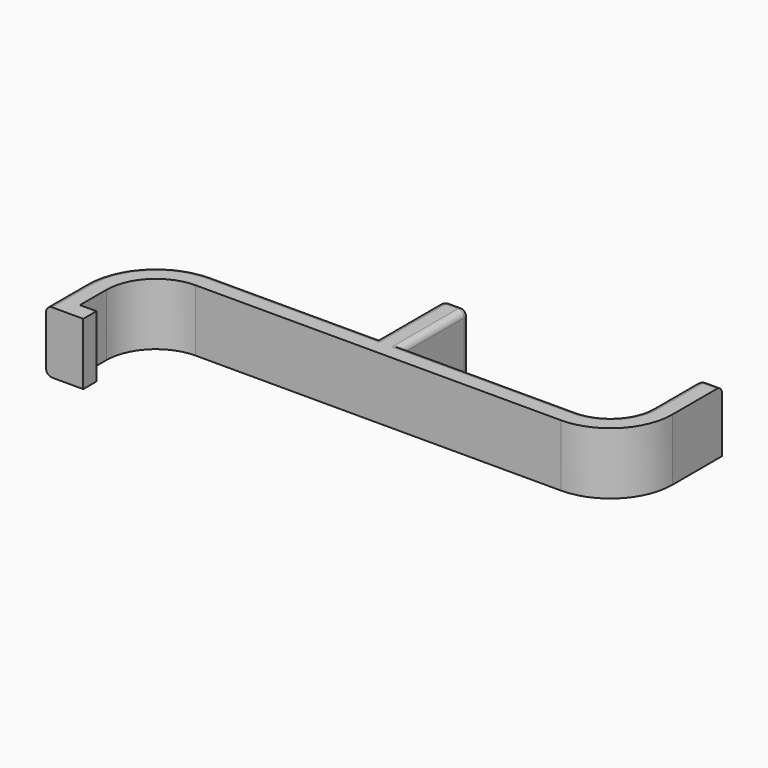
from build123d import *

# Parameters (mm, degrees)
F1_DEPTH = 15
F2_R     = 1.5


with BuildPart() as f1:
    # F0 (on Top) → F1 (new body)
    with BuildSketch(Plane.XY):
        with BuildLine():
            Line((-49.768658, 29), (-90.018658, 29))
            ThreePointArc((-90.018658, 29), (-102.039473, 24.020815), (-107.018658, 12))
            Line((-107.018658, 12), (-107.018658, 0))
            Line((-107.018658, 0), (-102.018658, 0))
            Line((-102.018658, 0), (-98.018658, 0))
            Line((-98.018658, 0), (-98.018658, 4))
            Line((-98.018658, 4), (-102.018658, 4))
            Line((-102.018658, 4), (-102.018658, 12))
            ThreePointArc((-102.018658, 12), (-98.503939, 20.485281), (-90.018658, 24))
            Line((-90.018658, 24), (-1.518658, 24))
            ThreePointArc((-1.518658, 24), (9.087944, 28.393398), (13.481342, 39))
            Line((13.481342, 39), (13.481342, 54))
            Line((13.481342, 54), (8.481342, 54))
            Line((8.481342, 54), (8.481342, 39))
            ThreePointArc((8.481342, 39), (5.55241, 31.928932), (-1.518658, 29))
            Line((-1.518658, 29), (-43.768658, 29))
            Line((-43.768658, 29), (-43.768658, 49))
            Line((-43.768658, 49), (-49.768658, 49))
            Line((-49.768658, 49), (-49.768658, 29))
        make_face()
    extrude(amount=F1_DEPTH)

    # F2
    f2_edges = [f1.edges().sort_by_distance(p)[0] for p in [
        (5.55241, 31.928932, 0),
        (-43.768658, 39, 0),
        (-49.768658, 39, 0),
        (-69.893658, 29, 0),
        (-46.768658, 49, 0),
        (-102.039473, 24.020815, 15),
        (-107.018658, 6, 15),
        (-49.768658, 39, 15),
        (-46.768658, 49, 15),
        (-43.768658, 39, 15),
        (-22.643658, 29, 15),
        (10.981342, 54, 15),
        (-49.768658, 49, 7.5),
        (-43.768658, 49, 7.5),
        (8.481342, 54, 7.5),
    ]]
    fillet(f2_edges, radius=F2_R)


solid = f1.part
